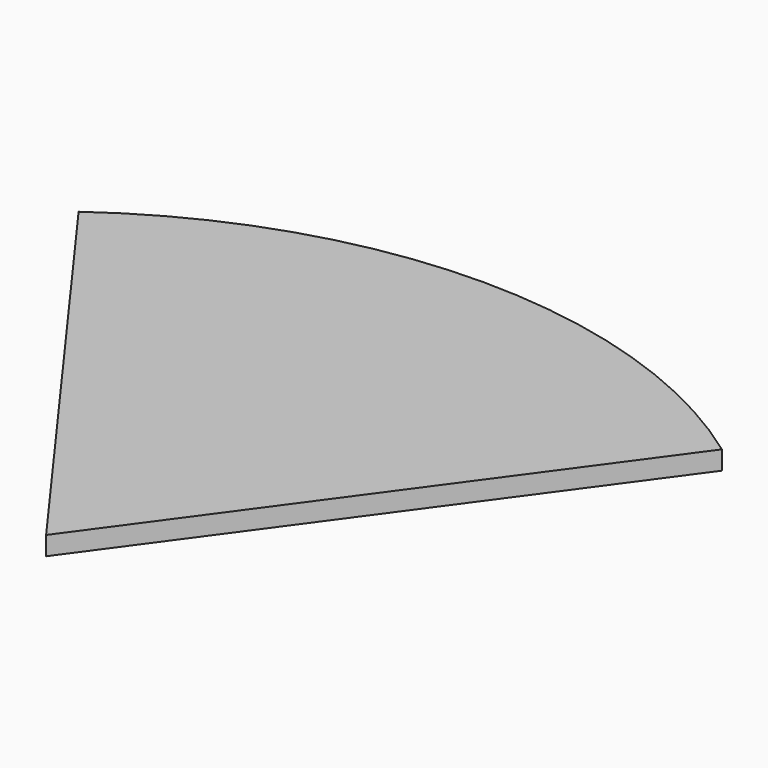
from build123d import *

# Parameters (mm, degrees)
F1_DEPTH = 3


with BuildPart() as f1:
    # F0 (on Top) → F1 (new body)
    with BuildSketch(Plane.XY):
        with BuildLine():
            Line((0, 0), (51.43121, 70.788987))
            ThreePointArc((51.43121, 70.788987), (27.038987, 83.217445), (0, 87.5))
            Line((0, 87.5), (0, 0))
        make_face()
        with BuildLine():
            Line((0, 0), (0, 87.5))
            ThreePointArc((0, 87.5), (-27.038987, 83.217445), (-51.43121, 70.788987))
            Line((-51.43121, 70.788987), (0, 0))
        make_face()
    extrude(amount=F1_DEPTH)


solid = f1.part
